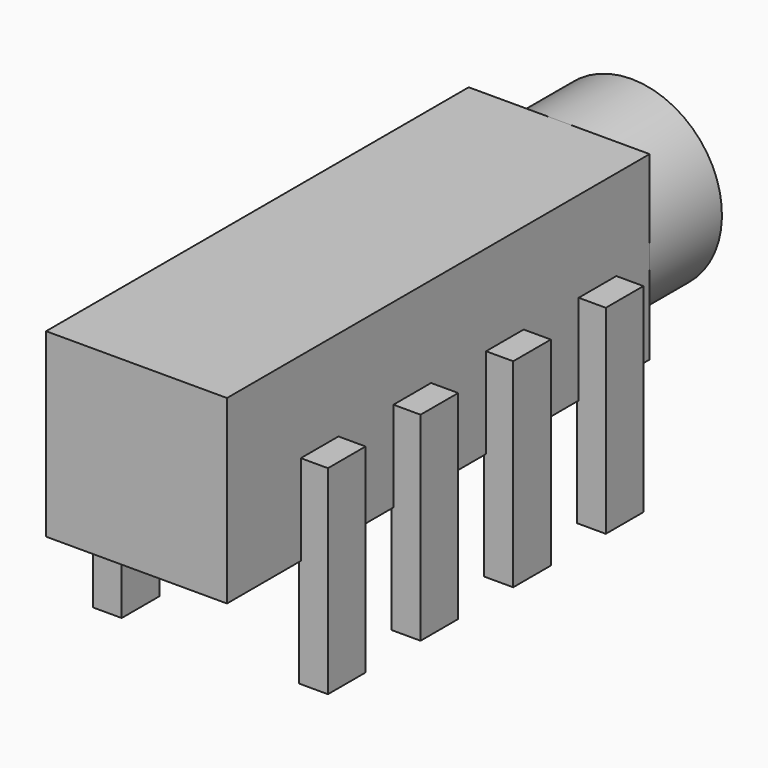
from build123d import *

# Parameters (mm, degrees)
SKETCH_W                = 14.6
SKETCH_H                = 5
PAD_DEPTH               = 2.5
SKETCH001_R             = 2.5
SKETCH001_R_2           = 1.8
PAD001_DEPTH            = 2.5
SKETCH002_W             = 0.8
SKETCH002_H             = 1.3
PAD002_DEPTH            = 5.5
SKETCH002_MIRRORED_2_W  = 0.8
SKETCH002_MIRRORED_2_H  = 1.3
PAD002_MIRRORED_2_DEPTH = 5.5
LINEARPATTERN_COUNT     = 4
LINEARPATTERN_PITCH     = 3.2


with BuildPart() as part:
    # Sketch → Pad (new body, symmetric)
    with BuildSketch(Plane.YZ):
        with Locations((-7.3, 2.5)):
            Rectangle(SKETCH_W, SKETCH_H)
    extrude(amount=PAD_DEPTH, both=True)

    # Sketch001 (on Face2 of Pad) → Pad001 (join)
    with BuildSketch(Plane.ZX):
        with Locations((2.5, 0)):
            Circle(SKETCH001_R)
        with Locations((2.5, 0)):
            Circle(SKETCH001_R_2, mode=Mode.SUBTRACT)
    extrude(amount=PAD001_DEPTH)

    # Sketch002 → Pad002 (join)
    with BuildSketch(Plane.XY.offset(2.5)):
        with Locations((-2.85, -11.4)):
            Rectangle(SKETCH002_W, SKETCH002_H)
    pad002 = extrude(amount=-PAD002_DEPTH)

    # Sketch002 Mirrored 2 → Pad002 Mirrored 2 (add)
    with BuildSketch(Plane(origin=(0, 0, 2.5), x_dir=(-1, 0, 0), z_dir=(0, 0, -1))):
        with Locations((-2.85, -11.4)):
            Rectangle(SKETCH002_MIRRORED_2_W, SKETCH002_MIRRORED_2_H)
    pad002_mirrored_2 = extrude(amount=PAD002_MIRRORED_2_DEPTH)

    # LinearPattern: Pad002, Pad002 Mirrored 2 ×4
    with Locations(*[(0, i * LINEARPATTERN_PITCH, 0) for i in range(1, LINEARPATTERN_COUNT)]):
        add(pad002)
        add(pad002_mirrored_2)


solid = part.part
